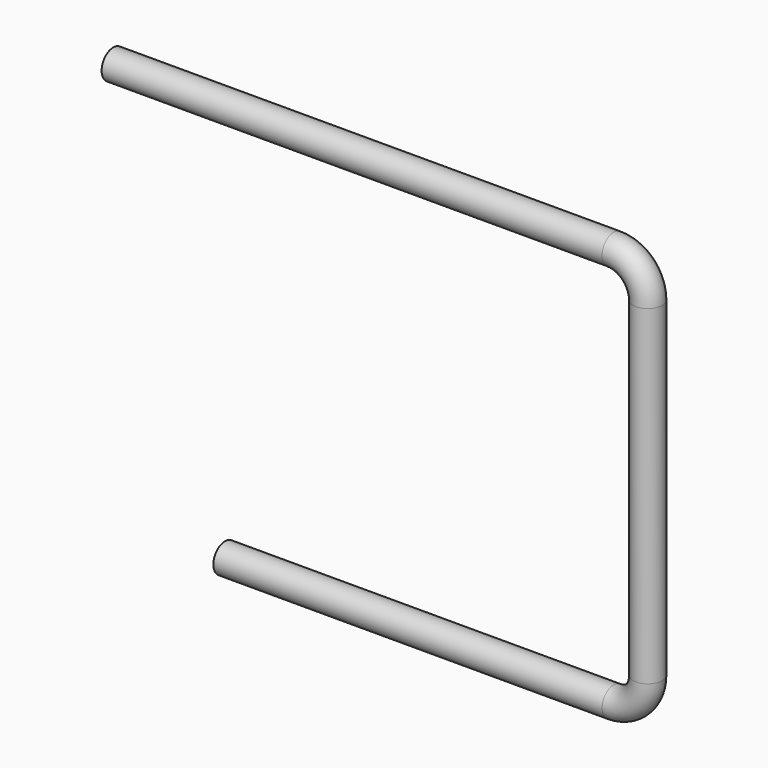
from build123d import *

# Parameters (mm, degrees)
F1_R = 3


with BuildPart() as f2:
    # F2: sweep along a path in F0
    with BuildLine(Plane.XZ) as f2_path:
        Line((-23, 82), (80, 82))
        ThreePointArc((80, 82), (84.949747, 79.949747), (87, 75))
        Line((87, 75), (87, 7))
        ThreePointArc((87, 7), (84.949747, 2.050253), (80, 0))
        Line((80, 0), (0, 0))
    # F1 (on Right) → F2 (sweep)
    with BuildSketch(Plane.YZ):
        Circle(F1_R)
    sweep(path=f2_path.line)


solid = f2.part
